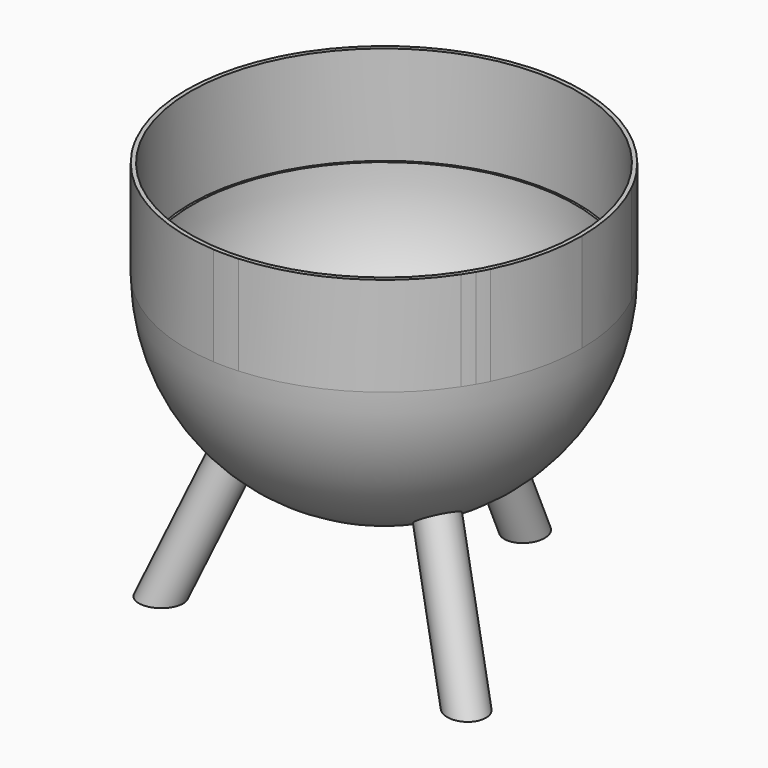
from build123d import *

# Parameters (mm, degrees)
F0_R      = 298.45
F1_DEPTH  = 152.4
F11_W     = 1267.8290780676
F11_H     = 1016
F16_DEPTH = 76.2


with BuildPart() as f1:
    # F0 (on Top) → F1 (new body)
    with BuildSketch(Plane.XY):
        with BuildLine():
            ThreePointArc((272.9734828671, 135.6042685589), (263.9645430735, 152.4), (253.9234828671, 168.599836443))
            ThreePointArc((253.9234828671, 168.599836443), (152.4, 263.9645430735), (19.05, 304.2041050019))
            ThreePointArc((19.05, 304.2041050019), (9.5296588455, 304.6509898265), (0, 304.8))
            ThreePointArc((0, 304.8), (-9.5296588455, 304.6509898265), (-19.05, 304.2041050019))
            ThreePointArc((-19.05, 304.2041050019), (-152.4, 263.9645430735), (-253.9234828671, 168.599836443))
            ThreePointArc((-253.9234828671, 168.599836443), (-263.9645430735, 152.4), (-272.9734828671, 135.6042685589))
            ThreePointArc((-272.9734828671, 135.6042685589), (-304.8, 0), (-272.9734828671, -135.6042685589))
            ThreePointArc((-272.9734828671, -135.6042685589), (-268.6003259006, -144.0725682636), (-263.9645430735, -152.4))
            ThreePointArc((-263.9645430735, -152.4), (-259.0706670551, -160.5784215629), (-253.9234828671, -168.599836443))
            ThreePointArc((-253.9234828671, -168.599836443), (-152.4, -263.9645430735), (-19.05, -304.2041050019))
            ThreePointArc((-19.05, -304.2041050019), (0, -304.8), (19.05, -304.2041050019))
            ThreePointArc((19.05, -304.2041050019), (152.4, -263.9645430735), (253.9234828671, -168.599836443))
            ThreePointArc((253.9234828671, -168.599836443), (259.0706670551, -160.5784215629), (263.9645430735, -152.4))
            ThreePointArc((263.9645430735, -152.4), (268.6003259006, -144.0725682636), (272.9734828671, -135.6042685589))
            ThreePointArc((272.9734828671, -135.6042685589), (296.7367162805, -69.6445346818), (304.8, 0))
            ThreePointArc((304.8, 0), (296.7367162805, 69.6445346818), (272.9734828671, 135.6042685589))
        make_face()
        Circle(F0_R, mode=Mode.SUBTRACT)
    extrude(amount=-F1_DEPTH)

    # F2 (on Front) → F9 (revolve)
    with BuildSketch(Plane.XZ):
        with BuildLine():
            Line((0, -447.3894571287), (0, -453.7394571287))
            ThreePointArc((0, -453.7394571287), (214.306152748, -365.6868034652), (304.8, -152.4))
            Line((304.8, -152.4), (294.9894571287, -152.4))
            ThreePointArc((294.9894571287, -152.4), (208.5890455143, -360.9890455142), (0, -447.3894571287))
        make_face()
    revolve(axis=Axis((0, 0, -248.1805924326), (0, 0, -1)))

    # F8 (on face) → F12 (revolve)
    with BuildSketch(Plane(origin=(0, 0, 0), x_dir=(0, -1, 0), z_dir=(-1, 0, 0))):
        with BuildLine():
            Line((-201.9116809095, -377.2763831548), (-304.8, -609.6))
            Line((-304.8, -609.6), (-271.7425017268, -609.6))
            Line((-271.7425017268, -609.6), (-177.4761269208, -396.7448835454))
            ThreePointArc((-177.4761269208, -396.7448835454), (-189.9434989923, -387.3239083256), (-201.9116809095, -377.2763831548))
        make_face()
    revolve(axis=Axis((0, 136.6116201303, -304.4721153432), (0, 0.4049332191, -0.9143462627)))

    # F7 (on face) → F13 (revolve)
    with BuildSketch(Plane(origin=(0, 0, 0), x_dir=(-0.8660254038, 0.5, 0), z_dir=(0.5, 0.8660254038, 0))):
        with BuildLine():
            Line((-201.9116809095, -377.2763831548), (-304.8, -609.6))
            Line((-304.8, -609.6), (-271.7425017268, -609.6))
            Line((-271.7425017268, -609.6), (-177.4761269208, -396.7448835454))
            ThreePointArc((-177.4761269208, -396.7448835454), (-189.9434989923, -387.3239083256), (-201.9116809095, -377.2763831548))
        make_face()
    revolve(axis=Axis((118.309133485, -68.3058100652, -304.4721153432), (0.3506824545, -0.2024666095, -0.9143462627)))

    # F6 (on face) → F14 (revolve)
    with BuildSketch(Plane(origin=(0, 0, 0), x_dir=(0.8660254038, 0.5, 0), z_dir=(0.5, -0.8660254038, 0))):
        with BuildLine():
            Line((-201.9116809095, -377.2763831548), (-304.8, -609.6))
            Line((-304.8, -609.6), (-271.7425017268, -609.6))
            Line((-271.7425017268, -609.6), (-177.4761269208, -396.7448835454))
            ThreePointArc((-177.4761269208, -396.7448835454), (-189.9434989923, -387.3239083256), (-201.9116809095, -377.2763831548))
        make_face()
    revolve(axis=Axis((-118.309133485, -68.3058100652, -304.4721153432), (-0.3506824545, -0.2024666095, -0.9143462627)))

    # F2 (on Front) → F15 (revolve, cut)
    with BuildSketch(Plane.XZ):
        with BuildLine():
            Line((0, -152.4), (0, -447.3894571287))
            ThreePointArc((0, -447.3894571287), (208.5890455143, -360.9890455142), (294.9894571287, -152.4))
            Line((294.9894571287, -152.4), (0, -152.4))
        make_face()
    revolve(axis=Axis((0, 0, -248.1805924326), (0, 0, -1)), mode=Mode.SUBTRACT)

    # F11 (on offset) → F16 (cut)
    with BuildSketch(Plane.XY.offset(-609.6)):
        with Locations((7.6045542955, -77.3831754923)):
            Rectangle(F11_W, F11_H)
    extrude(amount=-F16_DEPTH, mode=Mode.SUBTRACT)


solid = f1.part
